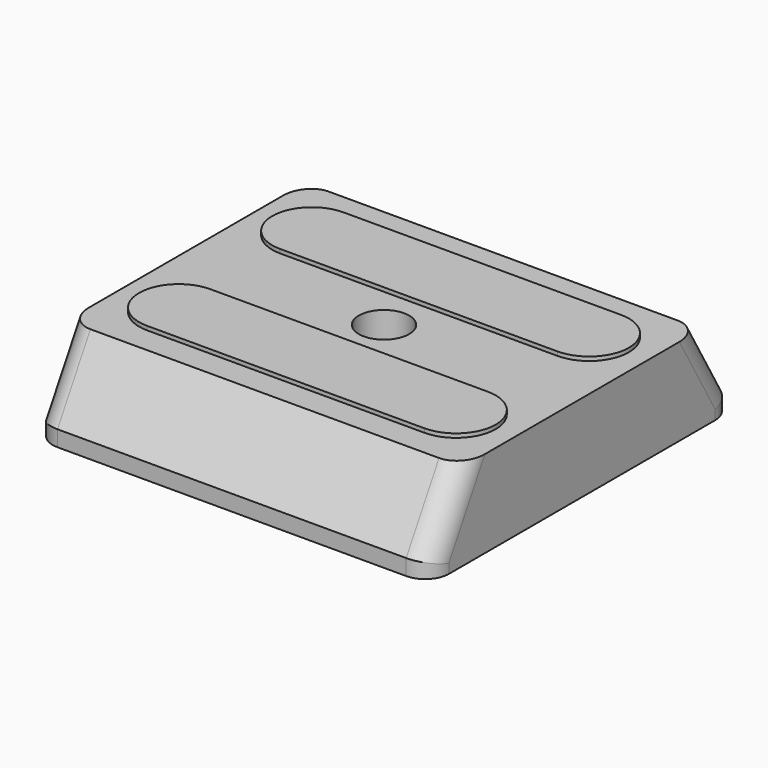
from build123d import *

# Parameters (mm, degrees)
SKETCH_W        = 50
SKETCH_H        = 48
PAD_DEPTH       = 11
CHAMFER_1_ANGLE = 30
CHAMFER_1_SIZE  = 9
CHAMFER_2_ANGLE = 30
CHAMFER_2_SIZE  = 9
FILLET_R        = 3
PAD001_DEPTH    = 0.5
SKETCH002_R     = 3.175
POCKET_DEPTH    = 11.501
POCKET001_DEPTH = 6


with BuildPart() as part:
    # Sketch → Pad (new body)
    with BuildSketch(Plane.XY):
        with Locations((25, 24)):
            Rectangle(SKETCH_W, SKETCH_H)
    extrude(amount=PAD_DEPTH)

    # Chamfer 1
    chamfer_1_edges = [part.edges().sort_by_distance(p)[0] for p in [
        (25, 0, 11),
    ]]
    chamfer_1_side = part.faces().sort_by_distance((25, 0, 5.5))[0]
    chamfer(chamfer_1_edges, length=CHAMFER_1_SIZE, angle=CHAMFER_1_ANGLE, reference=chamfer_1_side)

    # Chamfer 2
    chamfer_2_edges = [part.edges().sort_by_distance(p)[0] for p in [
        (25, 48, 11),
    ]]
    chamfer_2_side = part.faces().sort_by_distance((25, 48, 5.5))[0]
    chamfer(chamfer_2_edges, length=CHAMFER_2_SIZE, angle=CHAMFER_2_ANGLE, reference=chamfer_2_side)

    # Fillet
    fillet_edges = [part.edges().sort_by_distance(p)[0] for p in [
        (50, 2.598076, 6.5),
        (50, 0, 1),
        (50, 45.401924, 6.5),
        (50, 48, 1),
        (0, 45.401924, 6.5),
        (0, 48, 1),
        (0, 2.598076, 6.5),
        (0, 0, 1),
    ]]
    fillet(fillet_edges, radius=FILLET_R)

    # Sketch001 (on DatumPlane) → Pad001 (join)
    with BuildSketch(Plane.XY.offset(11)):
        with BuildLine():
            Line((7.5, 39.5), (42.5, 39.5))
            ThreePointArc((42.5, 29.5), (47.5, 34.5), (42.5, 39.5))
            Line((42.5, 29.5), (7.5, 29.5))
            ThreePointArc((7.5, 39.5), (2.5, 34.5), (7.5, 29.5))
        make_face()
        with BuildLine():
            Line((7.5, 18.5), (42.5, 18.5))
            ThreePointArc((42.5, 8.5), (47.5, 13.5), (42.5, 18.5))
            Line((42.5, 8.5), (7.5, 8.5))
            ThreePointArc((7.5, 18.5), (2.5, 13.5), (7.5, 8.5))
        make_face()
    extrude(amount=PAD001_DEPTH)

    # Sketch002 → Pocket (cut, through all)
    with BuildSketch(Plane.XY):
        with Locations((25, 24)):
            Circle(SKETCH002_R)
    extrude(amount=POCKET_DEPTH, mode=Mode.SUBTRACT)

    # Sketch003 → Pocket001 (cut)
    with BuildSketch(Plane.XY):
        with BuildLine():
            Line((6, 37.5), (44, 37.5))
            ThreePointArc((46, 35.5), (45.414214, 36.914214), (44, 37.5))
            Line((46, 35.5), (46, 12.5))
            ThreePointArc((44, 10.5), (45.414214, 11.085786), (46, 12.5))
            Line((44, 10.5), (6, 10.5))
            ThreePointArc((4, 12.5), (4.585786, 11.085786), (6, 10.5))
            Line((4, 12.5), (4, 35.5))
            ThreePointArc((6, 37.5), (4.585786, 36.914214), (4, 35.5))
        make_face()
    extrude(amount=POCKET001_DEPTH, mode=Mode.SUBTRACT)


solid = part.part
